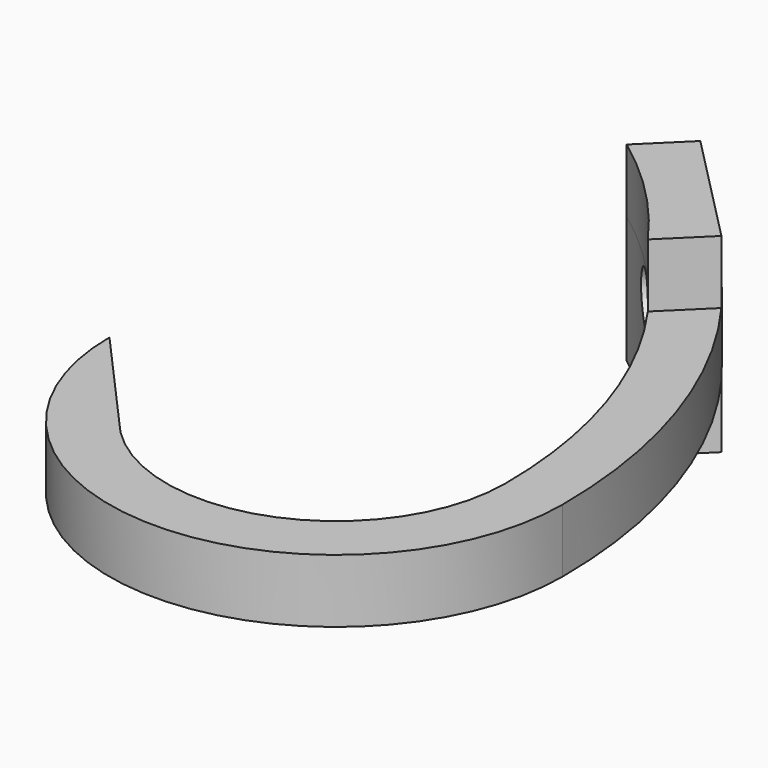
from build123d import *

# Parameters (mm, degrees)
F1_DEPTH      = 7.62
F3_DEPTH      = 7.62
F3_DEPTH_BACK = 15.24
F4_R          = 3.175
F5_DEPTH      = 79.502
F5_DEPTH_BACK = 34.798


with BuildPart() as f1:
    # F0 (on Top) → F1 (new body)
    with BuildSketch(Plane.XY):
        with BuildLine():
            ThreePointArc((-19.4344986555, 31.5148568491), (-1.0529688957, 9.7617744234), (5.5467668246, -17.9423898801))
            ThreePointArc((5.5467668246, -17.9423898801), (-8.0937566855, -37.1436695543), (-30.7152286304, -30.5845514882))
            Line((-30.7152286304, -30.5845514882), (-41.9875042541, -17.9423898801))
            ThreePointArc((-41.9875042541, -17.9423898801), (-14.7879740797, -45.1419200544), (12.4115560946, -17.9423898801))
            ThreePointArc((12.4115560946, -17.9423898801), (5.3194072823, 12.3671165466), (-14.4844366655, 36.3832053102))
            Line((-14.4844366655, 36.3832053102), (-19.4344986555, 31.5148568491))
        make_face()
    extrude(amount=F1_DEPTH)

    # F2 (on face) → F3 (join, two sides)
    with BuildSketch(Plane.XY.offset(7.62)) as f3_sk:
        with BuildLine():
            Line((-0.8935400487, 22.5641902395), (-14.4844366655, 36.3832053102))
            Line((-14.4844366655, 36.3832053102), (-19.4344986555, 31.5148568491))
            ThreePointArc((-19.4344986555, 31.5148568491), (-12.0907540568, 25.1445945609), (-5.8436020388, 17.6958417784))
            Line((-5.8436020388, 17.6958417784), (-0.8935400487, 22.5641902395))
        make_face()
    extrude(amount=F3_DEPTH)
    extrude(f3_sk.sketch, amount=-F3_DEPTH_BACK)

    # F4 (on face) → F5 (cut, two sides)
    with BuildSketch(Plane(origin=(10.8263263702, 10.6476099552, 0), x_dir=(-0.7011976155, 0.7129669726, 0), z_dir=(0.7129669726, 0.7011976155, 0))) as f5_sk:
        with Locations((26.4052733757, 3.81)):
            Circle(F4_R)
    extrude(amount=-F5_DEPTH, mode=Mode.SUBTRACT)
    extrude(f5_sk.sketch, amount=F5_DEPTH_BACK, mode=Mode.SUBTRACT)


solid = f1.part
